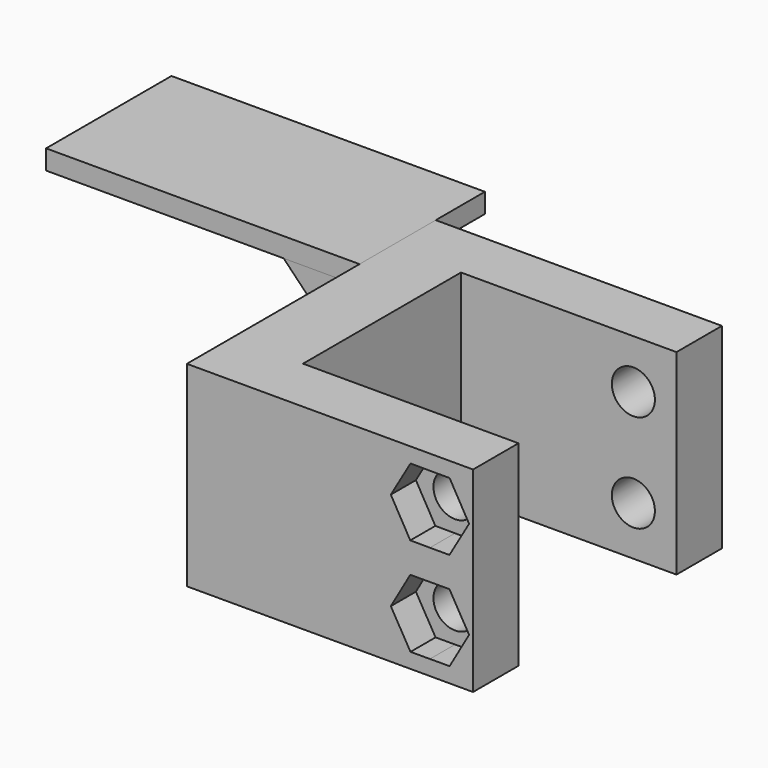
from build123d import *

# Parameters (mm, degrees)
F0_W     = 55
F0_H     = 14.5
F1_DEPTH = 50
F3_D     = 11
F5_DEPTH = 5
F7_START = -55.0882827309
F7_DEPTH = 24.3117172691
F8_DEPTH = 8


with BuildPart() as f1:
    # F0 (on Top) → F1 (new body)
    with BuildSketch(Plane.XY):
        Polygon((9.0226443761, 25.2), (9.0226443761, 39.7), (-9.0226443761, 39.7), (-9.0226443761, -39.7), (9.0226443761, -39.7), (9.0226443761, -25.2), align=None)
        with Locations((36.5226443761, 32.45)):
            Rectangle(F0_W, F0_H)
        with Locations((36.5226443761, -32.45)):
            Rectangle(F0_W, F0_H)
    extrude(amount=F1_DEPTH)

    # F3 (through all)
    with Locations(Plane.XZ.offset(39.7)):
        with Locations((53.0226443761, 37.5), (53.0226443761, 12.5)):
            Hole(F3_D / 2)

    # F2 (on face) → F8 (cut)
    with BuildSketch(Plane.XZ.offset(39.7)):
        Polygon((48.0009722306, 28.8659892172), (53.0226443761, 28.8499559106), (53.0226443761, 46.1500440894), (48.0562077744, 46.1659010388), (43.0345356289, 37.5318902561), align=None)
        Polygon((53.0226443761, 46.1500440894), (53.0226443761, 28.8499559106), (57.9890809777, 28.8340989612), (63.0107531232, 37.4681097439), (58.0443165215, 46.1340107828), align=None)
        Polygon((57.9890809777, 21.1659010388), (53.0226443761, 21.1500440894), (53.0226443761, 3.8499559106), (58.0443165215, 3.8659892172), (63.0107531232, 12.5318902561), align=None)
        Polygon((53.0226443761, 3.8499559106), (53.0226443761, 21.1500440894), (48.0009722306, 21.1340107827), (43.0345356289, 12.4681097439), (48.0562077744, 3.8340989612), align=None)
    extrude(amount=-F8_DEPTH, mode=Mode.SUBTRACT)


with BuildPart() as f5:
    # F4 (on face) → F5 (new body)
    with BuildSketch(Plane.XY.offset(50)):
        Polygon((-89.0226443761, 15.3882827309), (-9.0226443761, 15.3882827309), (-9.0226443761, 39.7), (-9.0226443761, 55.3882827309), (-89.0226443761, 55.3882827309), align=None)
    extrude(amount=-F5_DEPTH)


with BuildPart() as f7:
    # F6 (on face) → F7 (new body)
    with BuildSketch(Plane.XZ.offset(39.7).offset(F7_START)):
        Polygon((-9.0226443761, 25), (-9.0226443761, 45), (-28.3809173852, 45), align=None)
    extrude(amount=-F7_DEPTH)


solid = Compound([f1.part, f5.part, f7.part])
